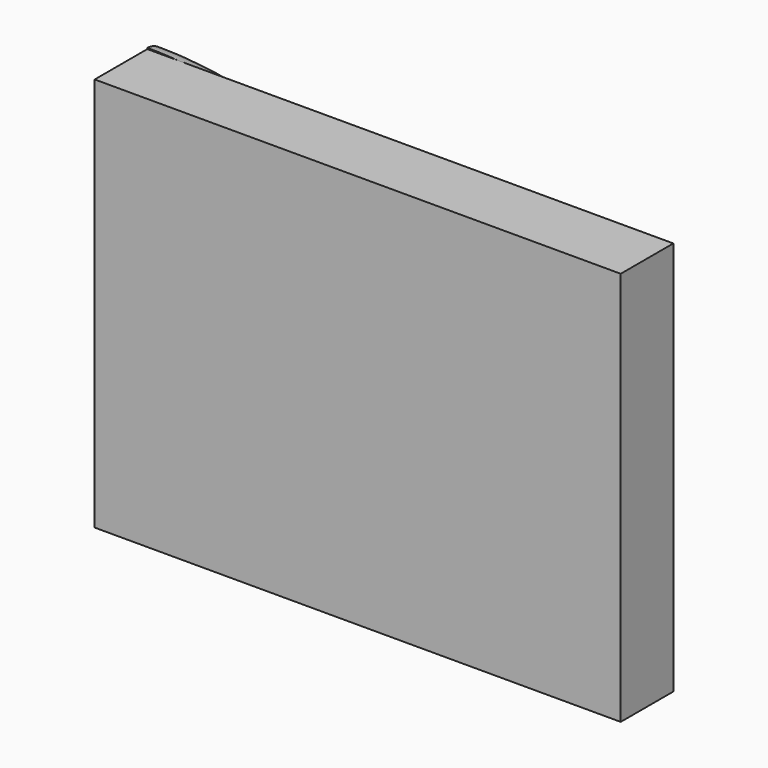
from build123d import *

# Parameters (mm, degrees)
F1_DEPTH = 12.7


with BuildPart() as f1:
    # F0 (on Front) → F1 (new body)
    with BuildSketch(Plane.XZ):
        with BuildLine():
            Line((0, 76.2), (0, 0))
            Line((0, 0), (71.12, 0))
            ThreePointArc((71.12, 0), (72.5485199348, 3.5317266787), (76.0306666667, 5.0771769934))
            ThreePointArc((76.0306666667, 5.0771769934), (52.0555429955, 55.6476454439), (0, 76.2))
        make_face()
        with BuildLine():
            ThreePointArc((76.0306666667, 5.0771769934), (72.5485199348, 3.5317266787), (71.12, 0))
            Line((71.12, 0), (76.2, 0))
            ThreePointArc((76.2, 0), (76.1576549009, 2.54), (76.0306666667, 5.0771769934))
        make_face()
        with BuildLine():
            ThreePointArc((76.0306666667, 5.0771769934), (76.1576549009, 2.54), (76.2, 0))
            Line((76.2, 0), (81.28, 0))
            ThreePointArc((81.28, 0), (79.7317266787, 3.6514800652), (76.0306666667, 5.0771769934))
        make_face()
        with BuildLine():
            Line((101.6, 76.2), (0, 76.2))
            ThreePointArc((0, 76.2), (52.0555429955, 55.6476454439), (76.0306666667, 5.0771769934))
            ThreePointArc((76.0306666667, 5.0771769934), (79.7317266787, 3.6514800652), (81.28, 0))
            Line((81.28, 0), (101.6, 0))
            Line((101.6, 0), (101.6, 76.2))
        make_face()
        with BuildLine():
            Line((101.6, 76.2), (0, 76.2))
            ThreePointArc((0, 76.2), (52.0555429955, 55.6476454439), (76.0306666667, 5.0771769934))
            ThreePointArc((76.0306666667, 5.0771769934), (79.7317266787, 3.6514800652), (81.28, 0))
            Line((81.28, 0), (101.6, 0))
            Line((101.6, 0), (101.6, 76.2))
        make_face()
        with BuildLine():
            Line((0, 76.2), (0, 0))
            Line((0, 0), (71.12, 0))
            ThreePointArc((71.12, 0), (72.5485199348, 3.5317266787), (76.0306666667, 5.0771769934))
            ThreePointArc((76.0306666667, 5.0771769934), (52.0555429955, 55.6476454439), (0, 76.2))
        make_face()
    extrude(amount=F1_DEPTH)

    # F3: sweep along a path in F0
    with BuildLine(Plane.XZ) as f3_path:
        ThreePointArc((0, 76.2), (53.8815367264, 53.8815367264), (76.2, 0))
    # F2 (on Top) → F3 (sweep)
    with BuildSketch(Plane.XY):
        with BuildLine():
            ThreePointArc((76.419301331, 0), (71.2296506655, 4.8893362163), (66.04, 0))
            Line((66.04, 0), (76.419301331, 0))
        make_face()
    sweep(path=f3_path.line)


solid = f1.part
